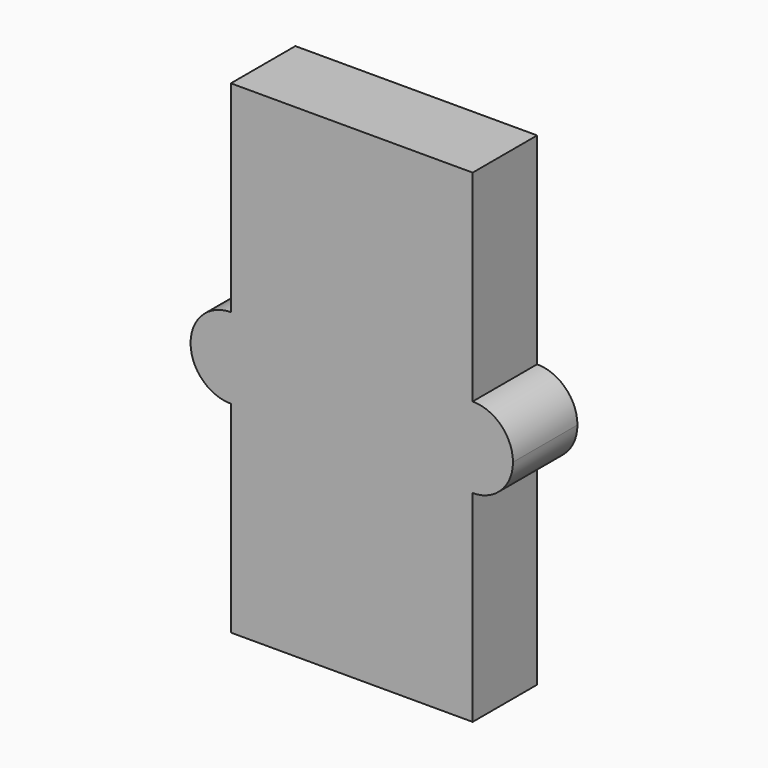
from build123d import *

# Parameters (mm, degrees)
F1_DEPTH = 25.4


with BuildPart() as f1:
    # F0 (on Front) → F1 (new body)
    with BuildSketch(Plane.XZ):
        with BuildLine():
            Line((-38.1, -76.2), (38.1, -76.2))
            Line((38.1, -76.2), (38.1, -12.7))
            ThreePointArc((38.1, -12.7), (25.4, 0), (38.1, 12.7))
            Line((38.1, 12.7), (38.1, 76.2))
            Line((38.1, 76.2), (-38.1, 76.2))
            Line((-38.1, 76.2), (-38.1, 12.7))
            ThreePointArc((-38.1, 12.7), (-29.1197438789, 8.9802561211), (-25.4, 0))
            ThreePointArc((-25.4, 0), (-29.1197438789, -8.9802561211), (-38.1, -12.7))
            Line((-38.1, -12.7), (-38.1, -76.2))
        make_face()
        with BuildLine():
            ThreePointArc((38.1, 12.7), (25.4, 0), (38.1, -12.7))
            Line((38.1, -12.7), (38.1, 12.7))
        make_face()
        with BuildLine():
            Line((38.1, 12.7), (38.1, -12.7))
            ThreePointArc((38.1, -12.7), (47.0802561211, -8.9802561211), (50.8, 0))
            ThreePointArc((50.8, 0), (47.0802561211, 8.9802561211), (38.1, 12.7))
        make_face()
        with BuildLine():
            ThreePointArc((-38.1, 12.7), (-50.8, 0), (-38.1, -12.7))
            Line((-38.1, -12.7), (-38.1, 12.7))
        make_face()
        with BuildLine():
            Line((-38.1, 12.7), (-38.1, -12.7))
            ThreePointArc((-38.1, -12.7), (-29.1197438789, -8.9802561211), (-25.4, 0))
            ThreePointArc((-25.4, 0), (-29.1197438789, 8.9802561211), (-38.1, 12.7))
        make_face()
    extrude(amount=F1_DEPTH)


solid = f1.part
